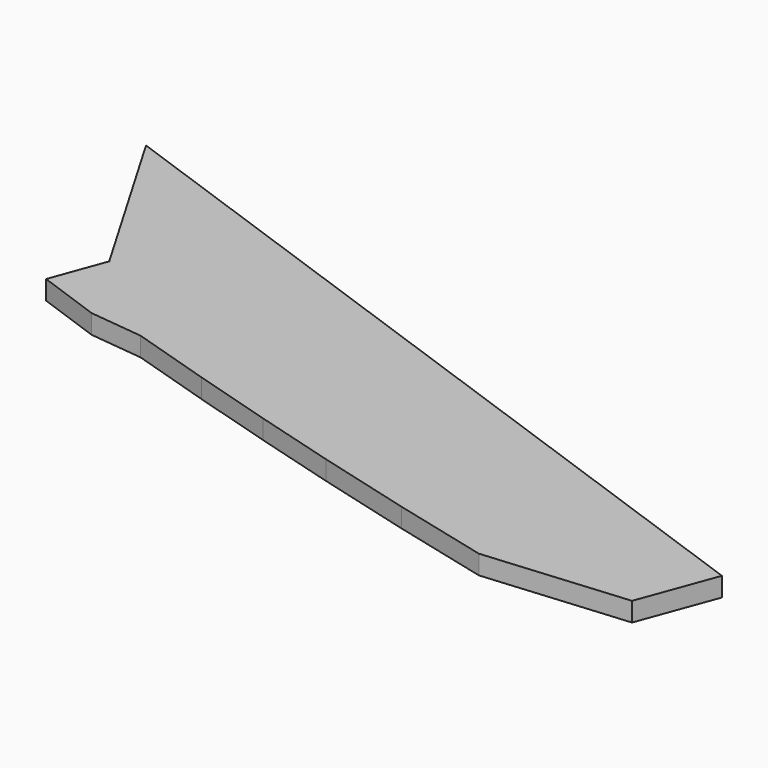
from build123d import *

# Parameters (mm, degrees)
PAD004_DEPTH = 5


with BuildPart() as part:
    # Sketch004 → Pad004 (new body)
    with BuildSketch(Plane.XY):
        with BuildLine():
            add(Edge.make_bspline(
                [(183.139549, -199.900438), (199.825938, -205.862382)],
                knots=[0, 0, 50.228478, 50.228478], degree=1))
            add(Edge.make_bspline(
                [(199.825938, -205.862382), (213.866493, -207.414604)],
                knots=[0, 0, 40.042477, 40.042477], degree=1))
            add(Edge.make_bspline(
                [(213.866493, -207.414604), (234.997882, -214.011549)],
                knots=[0, 0, 62.751096, 62.751096], degree=1))
            add(Edge.make_bspline(
                [(234.997882, -214.011549), (256.164548, -220.326271)],
                knots=[0, 0, 62.613178, 62.613178], degree=1))
            add(Edge.make_bspline(
                [(256.164548, -220.326271), (277.437047, -226.394048)],
                knots=[0, 0, 62.705103, 62.705103], degree=1))
            add(Edge.make_bspline(
                [(277.437047, -226.394048), (302.62538, -233.167382)],
                knots=[0, 0, 73.936459, 73.936459], degree=1))
            add(Edge.make_bspline(
                [(302.62538, -233.167382), (327.954824, -239.517381)],
                knots=[0, 0, 74.021889, 74.021889], degree=1))
            add(Edge.make_bspline(
                [(327.954824, -239.517381), (365.384545, -236.271826)],
                knots=[0, 0, 106.498122, 106.498122], degree=1))
            add(Edge.make_bspline(
                [(372.792878, -216.163493), (365.384545, -236.271826)],
                knots=[0, 0, 60.74537, 60.74537], degree=1))
            add(Edge.make_bspline(
                [(162.18455, -141.057106), (372.792878, -216.163493)],
                knots=[0, 0, 633.826009, 633.826009], degree=1))
            add(Edge.make_bspline(
                [(162.18455, -141.057106), (188.325383, -185.754049)],
                knots=[0, 0, 146.777723, 146.777723], degree=1))
            add(Edge.make_bspline(
                [(188.325383, -185.754049), (183.139549, -199.900438)],
                knots=[0, 0, 42.709484, 42.709484], degree=1))
        make_face()
    extrude(amount=PAD004_DEPTH)


solid = part.part
